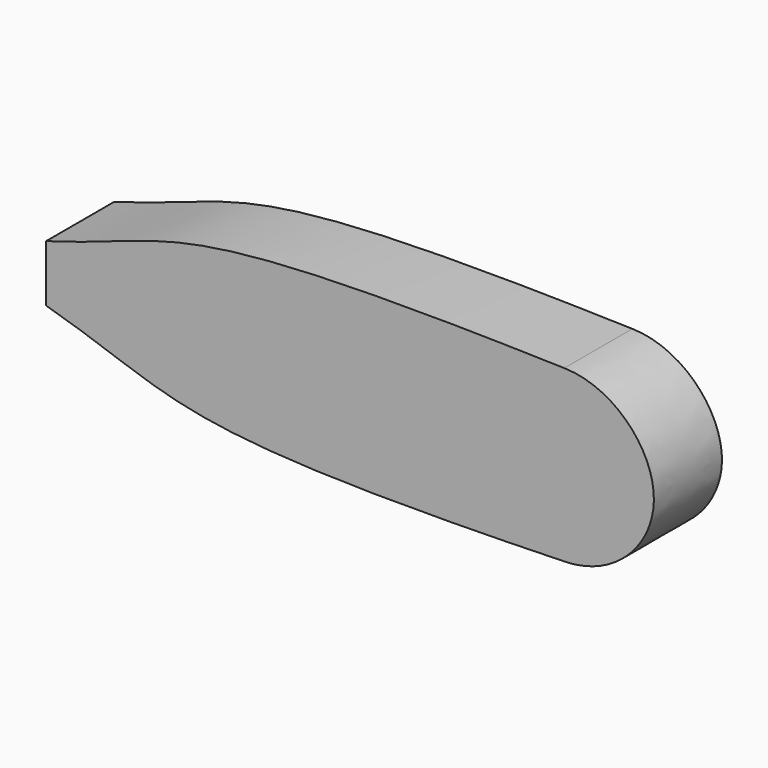
from build123d import *

# Parameters (mm, degrees)
F3_DEPTH = 15


with BuildPart() as f1:
    # F0 (on Front) → F1 (revolve)
    with BuildSketch(Plane.XZ):
        Polygon((-24, 3.25), (-49, 3.25), (-49, 0), (40, 0), (40, 12), (0, 12), (0, 3.4), (-2, 3.4), (-2, 8), (-24, 8), align=None)
    revolve(axis=Axis((-4.5, 0, 0), (-1, 0, 0)))


with BuildPart() as f3:
    # F2 (on Front) → F3 (new body)
    with BuildSketch(Plane.XZ):
        with BuildLine():
            add(Edge.make_bspline(
                [(-49.041996, 5), (-24.702918, 11.935834), (-28.770125, 17), (42.303421, 15)],
                knots=[0, 0, 0, 0, 91.891159, 91.891159, 91.891159, 91.891159], degree=3))
            Line((-49.041996, 5), (-49.041996, -5))
            add(Edge.make_bspline(
                [(-49.041996, -5), (-24.702918, -11.935834), (-28.770125, -17), (42.303421, -15)],
                knots=[0, 0, 0, 0, 91.891159, 91.891159, 91.891159, 91.891159], degree=3))
            add(Edge.make_bspline(
                [(42.303421, 15), (51.051009, 14.836123), (64.952584, -0.003986), (51.450081, -14.828151), (42.303421, -15)],
                knots=[0, 0, 0, 0, 21.784888, 43.569776, 43.569776, 43.569776, 43.569776], degree=3))
        make_face()
    extrude(amount=F3_DEPTH)

    # F4: cut F1
    add(f1.part, mode=Mode.SUBTRACT)


solid = f3.part
